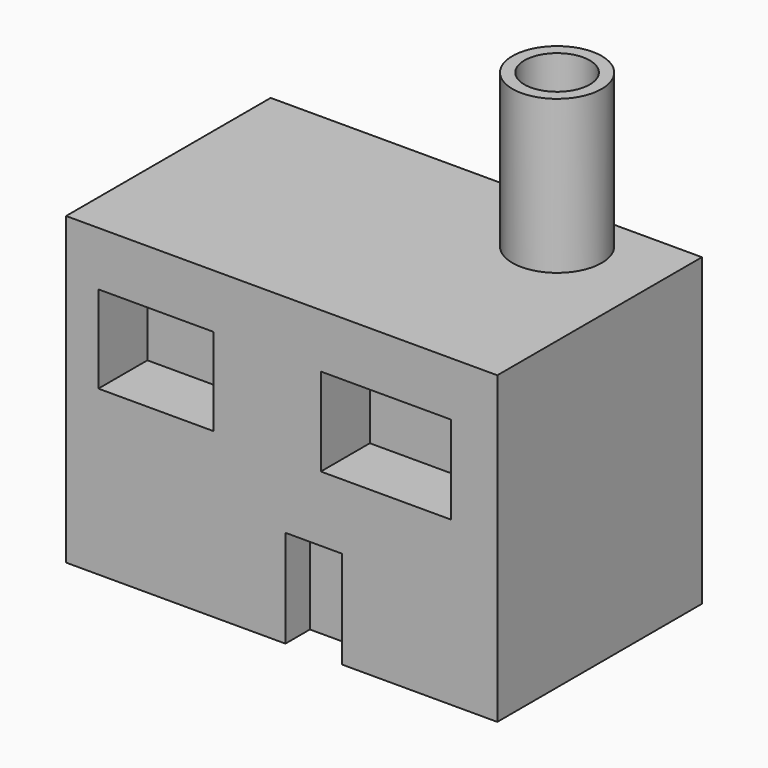
from build123d import *

# Parameters (mm, degrees)
F0_W      = 70.3775063157
F0_H      = 41.7411420494
F1_DEPTH  = 49.8
F2_W      = 9.2471539974
F2_H      = 15.9300006926
F3_DEPTH  = 5
F4_W      = 18.7503434718
F4_H      = 14.2625961453
F4_W_2    = 21.2060459889
F4_H_2    = 14.3702477217
F5_DEPTH  = 10
F6_R      = 7.2844766826
F7_DEPTH  = 25
F8_R      = 5.3356487736
F9_DEPTH  = 26.1
F10_R     = 0.9417381486
F11_DEPTH = 0.3


with BuildPart() as f1:
    # F0 (on Top) → F1 (new body)
    with BuildSketch(Plane.XY):
        with Locations((-0.606700778, 1.4560865238)):
            Rectangle(F0_W, F0_H)
    extrude(amount=F1_DEPTH)

    # F2 (on face) → F3 (cut)
    with BuildSketch(Plane.XZ.offset(19.4144845009)):
        with Locations((4.6235769987, 7.9650003463)):
            Rectangle(F2_W, F2_H)
    extrude(amount=-F3_DEPTH, mode=Mode.SUBTRACT)

    # F4 (on face) → F5 (cut)
    with BuildSketch(Plane.XZ.offset(19.4144845009)):
        with Locations((-21.1479142308, 33.8475396857)):
            Rectangle(F4_W, F4_H)
        with Locations((16.3835778367, 33.7937138975)):
            Rectangle(F4_W_2, F4_H_2)
    extrude(amount=-F5_DEPTH, mode=Mode.SUBTRACT)

    # F6 (on face) → F7 (join)
    with BuildSketch(Plane.XY.offset(49.8)):
        with Locations((18.3224212378, 13.1047777832)):
            Circle(F6_R)
    extrude(amount=F7_DEPTH)

    # F8 (on face) → F9 (cut)
    with BuildSketch(Plane.XY.offset(74.8)):
        with Locations((18.3224212378, 13.1047777832)):
            Circle(F8_R)
    extrude(amount=-F9_DEPTH, mode=Mode.SUBTRACT)

    # F10 (on face) → F11 (join)
    with BuildSketch(Plane.XZ.offset(14.4144845009)):
        with Locations((7.1194134653, 7.4219265953)):
            Circle(F10_R)
    extrude(amount=F11_DEPTH)


solid = f1.part
